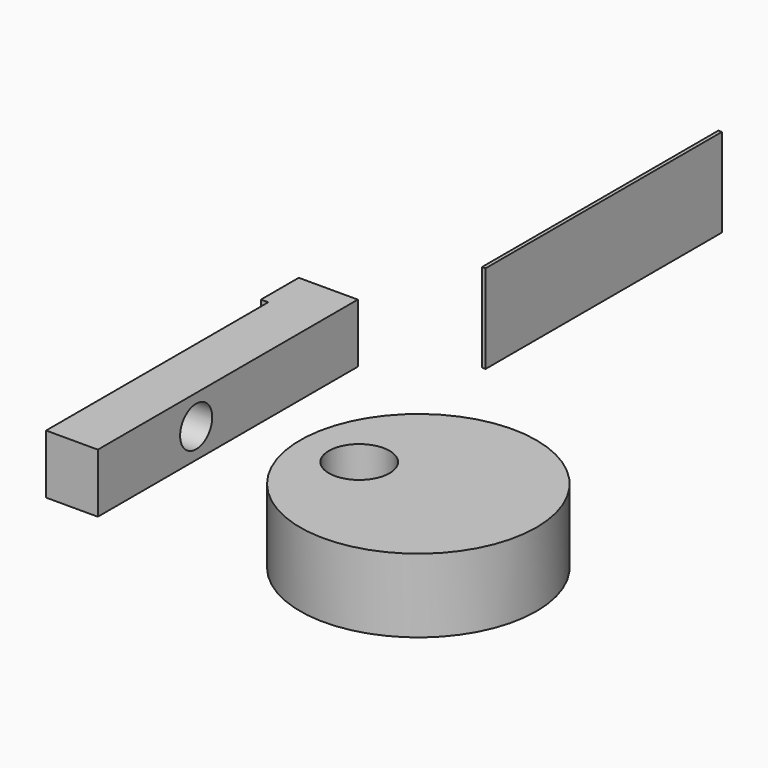
from build123d import *

# Parameters (mm, degrees)
F0_R     = 12.7
F1_DEPTH = 7.9248
F2_D     = 6.5278
F4_DEPTH = 6.35
F6_D     = 4.318
F7_W     = 31.75
F7_H     = 9.525
F8_DEPTH = 0.381


with BuildPart() as f1:
    # F0 (on Top) → F1 (new body)
    with BuildSketch(Plane.XY):
        Circle(F0_R)
    extrude(amount=F1_DEPTH)

    # F2 (through all)
    with Locations(Plane(origin=(0, 0, 0), x_dir=(1, 0, 0), z_dir=(0, 0, -1))):
        with Locations((-6.35, 0)):
            Hole(F2_D / 2)


with BuildPart() as f4:
    # F3 (on Top) → F4 (new body)
    with BuildSketch(Plane.XY):
        Polygon((-26.772261326, 25.338197906), (-33.122261326, 25.338197906), (-33.122261326, 20.258197906), (-32.334861326, 20.258197906), (-32.334861326, -9.586802094), (-26.772261326, -9.586802094), align=None)
    extrude(amount=F4_DEPTH)

    # F6 (through all)
    with Locations(Plane(origin=(-32.334861326, 0, 0), x_dir=(0, -1, 0), z_dir=(-1, 0, 0))):
        with Locations((-3.6238329485, 3.175)):
            Hole(F6_D / 2)


with BuildPart() as f8:
    # F7 (on Right) → F8 (new body)
    with BuildSketch(Plane.YZ):
        with Locations((24.4357057797, 20.1984364539)):
            Rectangle(F7_W, F7_H)
    extrude(amount=F8_DEPTH)


solid = Compound([f1.part, f4.part, f8.part])
